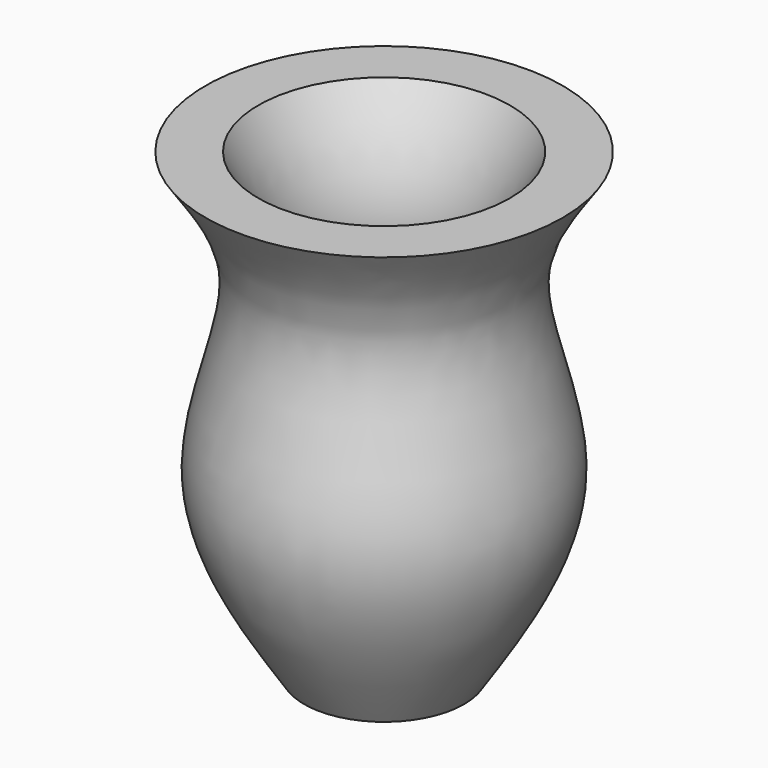
from build123d import *


with BuildPart() as f1:
    # F0 (on Front) → F1 (revolve)
    with BuildSketch(Plane.XZ):
        with BuildLine():
            Line((0, 4.1713144138), (0, 0))
            Line((0, 0), (14.0142515302, 0))
            add(Edge.make_bspline(
                [(14.0142515302, 0), (20.7492411307, 10.2960801399), (33.7720706735, 30.2046627174), (17.5689776902, 61.0210836086), (26.9527011914, 74.3921337665), (31.2664695084, 80.538906157)],
                knots=[0, 0, 0, 0, 0.3665732496, 0.7088089556, 1, 1, 1, 1], degree=3))
            Line((31.2664695084, 80.538906157), (22.0200679373, 80.538906157))
            add(Edge.make_bspline(
                [(22.0200679373, 80.538906157), (18.4680422881, 74.2132064318), (10.7040463527, 60.3865306683), (28.6837911469, 30.1069982791), (14.6847163936, 12.8558140718), (7.6373764286, 4.1713144138)],
                knots=[0, 0, 0, 0, 0.2951684779, 0.6451774534, 1, 1, 1, 1], degree=3))
            Line((7.6373764286, 4.1713144138), (0, 4.1713144138))
        make_face()
    revolve(axis=Axis((0, 0, 55.5083851088), (0, 0, 1)))


solid = f1.part
